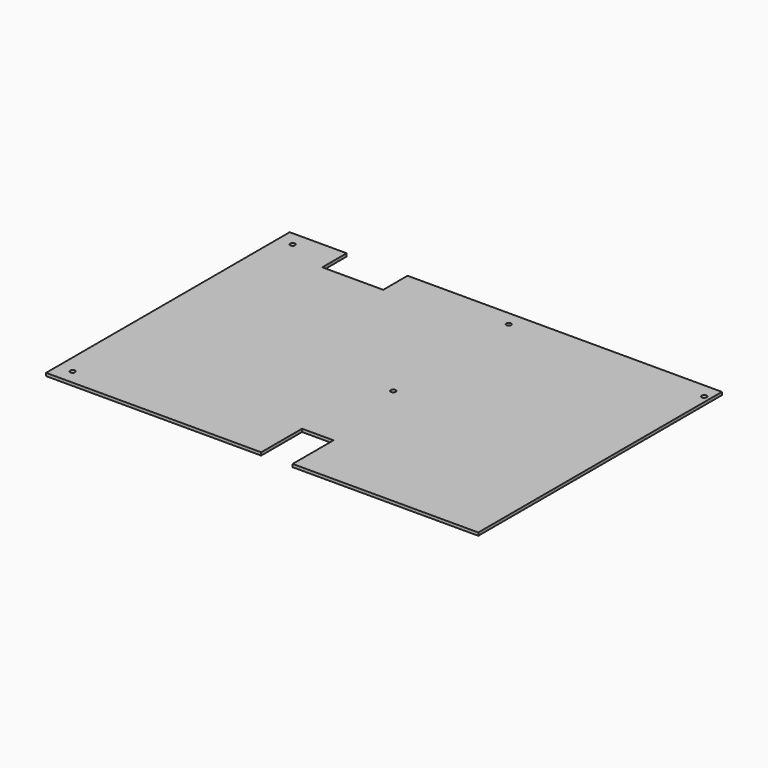
from build123d import *

# Parameters (mm, degrees)
BOX002_W          = 32
BOX002_H          = 62
BOX002_DEPTH      = 9
CYLINDER_R        = 2.5
CYLINDER_DEPTH    = 10
CYLINDER001_R     = 2.5
CYLINDER001_DEPTH = 100
CYLINDER002_R     = 2.5
CYLINDER002_DEPTH = 100
CYLINDER003_R     = 2.5
CYLINDER003_DEPTH = 100
CYLINDER004_R     = 2.5
CYLINDER004_DEPTH = 100
BOX001_W          = 62
BOX001_H          = 32
BOX001_DEPTH      = 9
BOX_W             = 440
BOX_H             = 310
BOX_DEPTH         = 3


with BuildPart() as electronics_base002:
    # Box002 → Box002 (new body)
    with BuildSketch(Plane(origin=(-151, 785, -1), x_dir=(1, 0, 0), z_dir=(0, 0, 1))):
        with Locations((16, 31)):
            Rectangle(BOX002_W, BOX002_H)
    extrude(amount=BOX002_DEPTH)


with BuildPart() as cylinder:
    # Cylinder → Cylinder (new body)
    with BuildSketch(Plane(origin=(64, 1090, -3), x_dir=(1, 0, 0), z_dir=(0, 0, 1))):
        Circle(CYLINDER_R)
    extrude(amount=CYLINDER_DEPTH)


with BuildPart() as cylinder001:
    # Cylinder001 → Cylinder001 (new body)
    with BuildSketch(Plane(origin=(-135, 1090, -45), x_dir=(1, 0, 0), z_dir=(0, 0, 1))):
        Circle(CYLINDER001_R)
    extrude(amount=CYLINDER001_DEPTH)


with BuildPart() as cylinder002:
    # Cylinder002 → Cylinder002 (new body)
    with BuildSketch(Plane(origin=(-355, 1090, -45), x_dir=(1, 0, 0), z_dir=(0, 0, 1))):
        Circle(CYLINDER002_R)
    extrude(amount=CYLINDER002_DEPTH)


with BuildPart() as cylinder003:
    # Cylinder003 → Cylinder003 (new body)
    with BuildSketch(Plane(origin=(-355, 810, -45), x_dir=(1, 0, 0), z_dir=(0, 0, 1))):
        Circle(CYLINDER003_R)
    extrude(amount=CYLINDER003_DEPTH)


with BuildPart() as cylinder004:
    # Cylinder004 → Cylinder004 (new body)
    with BuildSketch(Plane(origin=(-135, 943, -45), x_dir=(1, 0, 0), z_dir=(0, 0, 1))):
        Circle(CYLINDER004_R)
    extrude(amount=CYLINDER004_DEPTH)


with BuildPart() as cuts_electronic_base:
    # Box001 → Box001 (new body)
    with BuildSketch(Plane(origin=(-312, 1074, -1), x_dir=(1, 0, 0), z_dir=(0, 0, 1))):
        with Locations((31, 16)):
            Rectangle(BOX001_W, BOX001_H)
    extrude(amount=BOX001_DEPTH)

    # Fusion001002: union electronics_base002, Cylinder, Cylinder001, Cylinder002, Cylinder003, Cylinder004
    add(electronics_base002.part)
    add(cylinder.part)
    add(cylinder001.part)
    add(cylinder002.part)
    add(cylinder003.part)
    add(cylinder004.part)


with BuildPart() as wood_electronic_base:
    # Box → Box (new body)
    with BuildSketch(Plane(origin=(-370, 795, 0), x_dir=(1, 0, 0), z_dir=(0, 0, 1))):
        with Locations((220, 155)):
            Rectangle(BOX_W, BOX_H)
    extrude(amount=BOX_DEPTH)

    # Cut: cut cuts_electronic_base
    add(cuts_electronic_base.part, mode=Mode.SUBTRACT)


solid = wood_electronic_base.part
